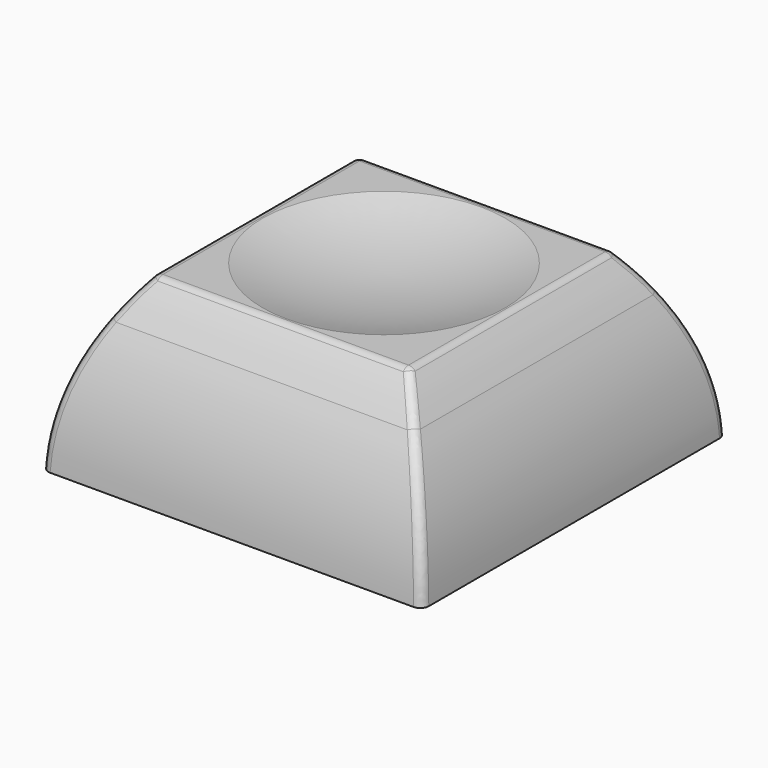
from build123d import *

# Parameters (mm, degrees)
F0_W      = 18
F0_H      = 18
F1_DEPTH  = 7.874
F4_DEPTH  = 25
F5_DEPTH  = 25
F6_T      = -1.6
F7_R      = 2.77
F8_DEPTH  = 7
F10_DEPTH = 3
F11_R     = 0.4


with BuildPart() as f1:
    # F0 (on Top) → F1 (new body)
    with BuildSketch(Plane.XY):
        Rectangle(F0_W, F0_H)
    extrude(amount=F1_DEPTH)

    # F3 (on face) → F4 (cut)
    with BuildSketch(Plane(origin=(-9, 0, 0), x_dir=(0, -1, 0), z_dir=(-1, 0, 0))):
        with BuildLine():
            Line((-6, 7.874), (-9, 7.874))
            Line((-9, 7.874), (-7.232233047, 6.106233047))
            ThreePointArc((-7.232233047, 6.106233047), (-6.6524748606, 7.0154603305), (-6, 7.874))
        make_face()
        with BuildLine():
            Line((-7.232233047, 6.106233047), (-9, 7.874))
            Line((-9, 7.874), (-9, 0))
            ThreePointArc((-9, 0), (-8.491581374, 3.1618143655), (-7.232233047, 6.106233047))
        make_face()
        with BuildLine():
            Line((9, 7.874), (6, 7.874))
            ThreePointArc((6, 7.874), (6.6524748606, 7.0154603305), (7.232233047, 6.106233047))
            Line((7.232233047, 6.106233047), (9, 7.874))
        make_face()
        with BuildLine():
            ThreePointArc((7.232233047, 6.106233047), (8.491581374, 3.1618143655), (9, 0))
            Line((9, 0), (9, 7.874))
            Line((9, 7.874), (7.232233047, 6.106233047))
        make_face()
    extrude(amount=-F4_DEPTH, mode=Mode.SUBTRACT)

    # F2 (on face) → F5 (cut)
    with BuildSketch(Plane.XZ.offset(9)):
        with BuildLine():
            Line((-7.232233047, 6.106233047), (-9, 7.874))
            Line((-9, 7.874), (-9, 0))
            ThreePointArc((-9, 0), (-8.491581374, 3.1618143655), (-7.232233047, 6.106233047))
        make_face()
        with BuildLine():
            Line((-6, 7.874), (-9, 7.874))
            Line((-9, 7.874), (-7.232233047, 6.106233047))
            ThreePointArc((-7.232233047, 6.106233047), (-6.6524748606, 7.0154603305), (-6, 7.874))
        make_face()
        with BuildLine():
            Line((9, 7.874), (6, 7.874))
            ThreePointArc((6, 7.874), (6.6524748606, 7.0154603305), (7.232233047, 6.106233047))
            Line((7.232233047, 6.106233047), (9, 7.874))
        make_face()
        with BuildLine():
            ThreePointArc((7.232233047, 6.106233047), (8.491581374, 3.1618143655), (9, 0))
            Line((9, 0), (9, 7.874))
            Line((9, 7.874), (7.232233047, 6.106233047))
        make_face()
    extrude(amount=-F5_DEPTH, mode=Mode.SUBTRACT)

    # F6
    f6_openings = [f1.faces().sort_by_distance(p)[0] for p in [
        (0, 0, 0),
    ]]
    offset(amount=F6_T, openings=f6_openings)

    # F7 (on face) → F8 (join)
    with BuildSketch(Plane(origin=(0, 0, 0), x_dir=(1, 0, 0), z_dir=(0, 0, -1))):
        Circle(F7_R)
        Polygon((0.7, 2.1), (0.7, 0.7), (2.1, 0.7), (2.1, 0), (2.1, -0.7), (0.7, -0.7), (0.7, -2.1), (0, -2.1), (-0.7, -2.1), (-0.7, -0.7), (-2.1, -0.7), (-2.1, 0), (-2.1, 0.7), (-0.7, 0.7), (-0.7, 2.1), (0, 2.1), align=None, mode=Mode.SUBTRACT)
    extrude(amount=-F8_DEPTH)

    # F9 (on face) → F10 (cut)
    with BuildSketch(Plane(origin=(0, 0, 0), x_dir=(1, 0, 0), z_dir=(0, 0, -1))):
        with BuildLine():
            Line((-2.1, -0.7), (-2.1, 0.7))
            Line((-2.1, 0.7), (-2.680093282, 0.7))
            ThreePointArc((-2.680093282, 0.7), (-2.77, 0), (-2.680093282, -0.7))
            Line((-2.680093282, -0.7), (-2.1, -0.7))
        make_face()
        with BuildLine():
            ThreePointArc((2.77, 0), (2.7474313814, 0.3528750551), (2.680093282, 0.7))
            Line((2.680093282, 0.7), (2.1, 0.7))
            Line((2.1, 0.7), (2.1, -0.7))
            Line((2.1, -0.7), (2.680093282, -0.7))
            ThreePointArc((2.680093282, -0.7), (2.7474313814, -0.3528750551), (2.77, 0))
        make_face()
    extrude(amount=-F10_DEPTH, mode=Mode.SUBTRACT)

    # F11
    f11_edges = [f1.edges().sort_by_distance(p)[0] for p in [
        (6, 0, 7.874),
        (0, -6, 7.874),
        (0, 6, 7.874),
        (-6, 0, 7.874),
        (8.078099, 8.078099, 4.367421),
        (8.078099, -8.078099, 4.367421),
        (-8.078099, -8.078099, 4.367421),
        (-8.078099, 8.078099, 4.367421),
    ]]
    fillet(f11_edges, radius=F11_R)

    # F12 (on Front) → F13 (revolve, cut)
    with BuildSketch(Plane.XZ):
        with BuildLine():
            ThreePointArc((-10, 10), (-5.2316729526, 7.7080140656), (0, 6.9207780963))
            Line((0, 6.9207780963), (0, 10))
            Line((0, 10), (-10, 10))
        make_face()
    revolve(axis=Axis((0, 0, 5), (0, 0, 1)), mode=Mode.SUBTRACT)


solid = f1.part
